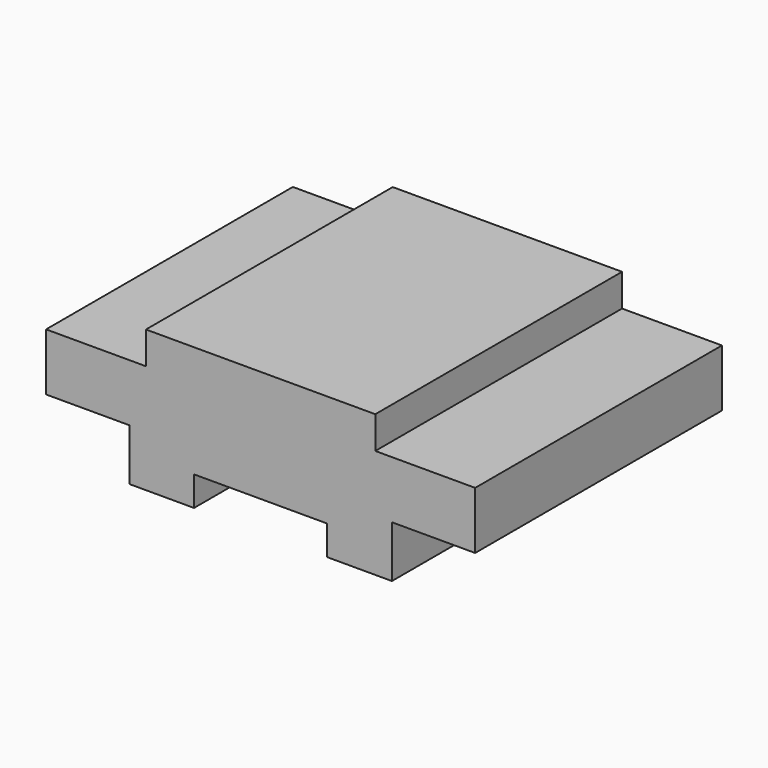
from build123d import *

# Parameters (mm, degrees)
F1_DEPTH = 30


with BuildPart() as f1:
    # F0 (on Front) → F1 (new body, symmetric)
    with BuildSketch(Plane.XZ):
        Polygon((22.305341, 0), (0, 0), (-22.305341, 0), (-22.305341, -6.29586), (-41.732572, -6.29586), (-41.732572, -17.44853), (-25.543211, -17.44853), (-25.543211, -27.52191), (-12.951488, -27.52191), (-12.951488, -21.765692), (0, -21.765692), (12.951488, -21.765692), (12.951488, -27.52191), (25.543211, -27.52191), (25.543211, -17.44853), (41.732572, -17.44853), (41.732572, -6.29586), (22.305341, -6.29586), align=None)
    extrude(amount=F1_DEPTH, both=True)


solid = f1.part
